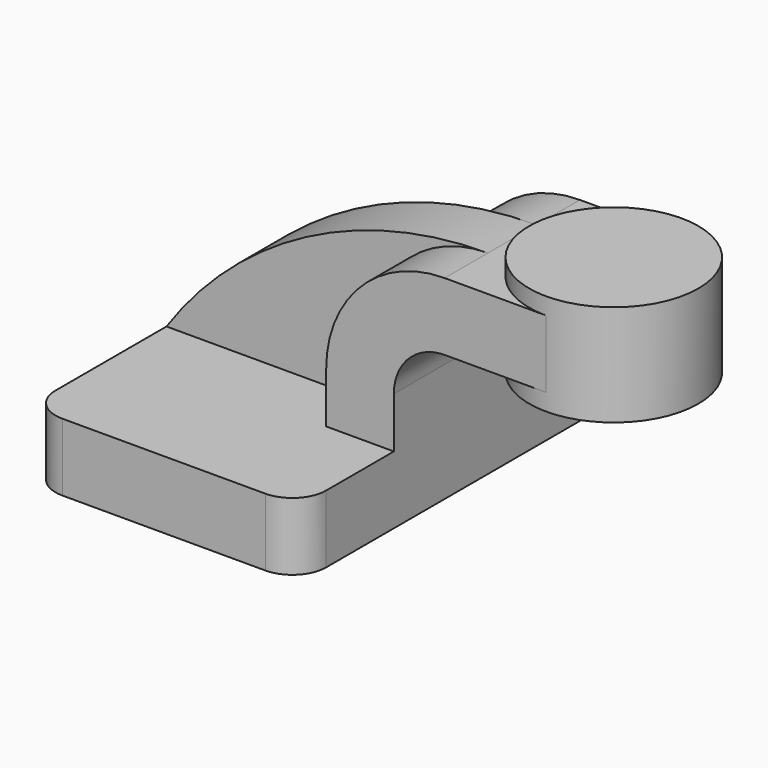
from build123d import *

# Parameters (mm, degrees)
F1_DEPTH = 60
F2_DEPTH = 9
F3_DEPTH = 25
F5_R     = 10


with BuildPart() as f1:
    # F0 (on Front) → F1 (new body, symmetric)
    with BuildSketch(Plane.XZ):
        Polygon((0, 20), (0, 0), (80, 0), (80, 20), (60, 20), align=None)
    extrude(amount=F1_DEPTH, both=True)

    # F0 (on Front) → F2 (join, symmetric)
    with BuildSketch(Plane.XZ):
        with BuildLine():
            ThreePointArc((95, 70), (41.322724, 56.736825), (0, 20))
            Line((0, 20), (60, 20))
            Line((60, 20), (60, 35))
            ThreePointArc((60, 35), (70.251263, 59.748737), (95, 70))
        make_face()
    extrude(amount=F2_DEPTH, both=True)

    # F0 (on Front) → F3 (join, symmetric)
    with BuildSketch(Plane.XZ):
        with BuildLine():
            Line((60, 20), (80, 20))
            Line((80, 20), (80, 35))
            ThreePointArc((80, 35), (84.393398, 45.606602), (95, 50))
            Line((95, 50), (125, 50))
            Line((125, 50), (125, 70))
            Line((125, 70), (95, 70))
            ThreePointArc((95, 70), (70.251263, 59.748737), (60, 35))
            Line((60, 35), (60, 20))
        make_face()
    extrude(amount=F3_DEPTH, both=True)

    # F0 (on Front) → F4 (revolve)
    with BuildSketch(Plane.XZ):
        Polygon((125, 75), (125, 70), (125, 50), (125, 45), (150, 45), (150, 75), align=None)
    revolve(axis=Axis((125, 0, 60), (0, 0, 1)))

    # F5
    f5_edges = [f1.edges().sort_by_distance(p)[0] for p in [
        (0, -60, 10),
        (80, -60, 10),
        (0, 60, 10),
        (80, 60, 10),
    ]]
    fillet(f5_edges, radius=F5_R)


solid = f1.part
